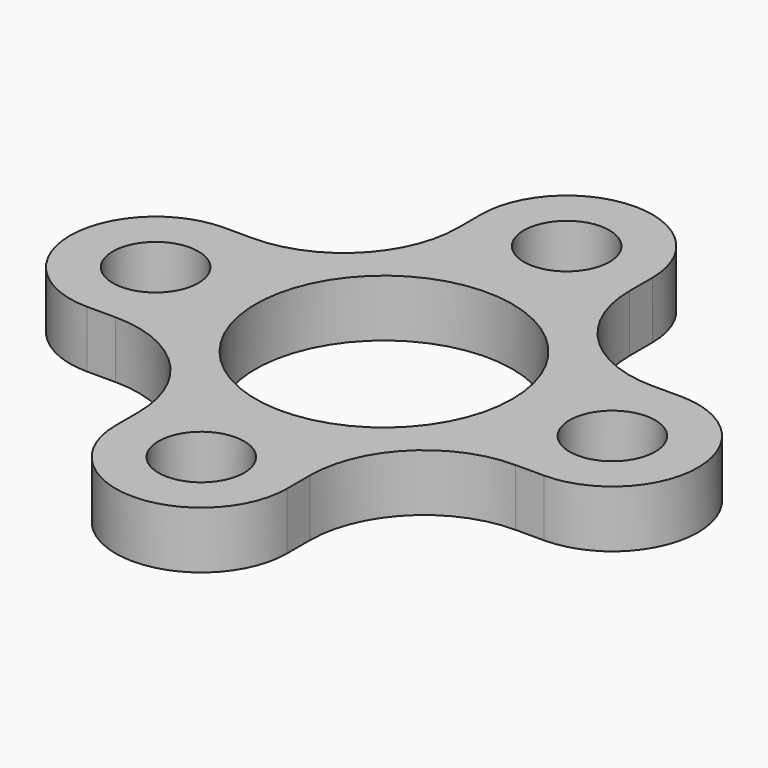
from build123d import *

# Parameters (mm, degrees)
F0_R     = 1.5
F0_R_2   = 4.5
F1_DEPTH = 2


with BuildPart() as f1:
    # F0 (on Top) → F1 (new body)
    with BuildSketch(Plane.XY):
        with BuildLine():
            ThreePointArc((-8.332531, 2.986763), (-11.332531, -0.013237), (-8.332531, -3.013237))
            Line((-8.332531, -3.013237), (-7.332531, -3.013237))
            ThreePointArc((-7.332531, -3.013237), (-4.504103, -4.184809), (-3.332531, -7.013237))
            Line((-3.332531, -7.013237), (-3.332531, -8.013237))
            ThreePointArc((-3.332531, -8.013237), (-0.332531, -11.013237), (2.667469, -8.013237))
            Line((2.667469, -8.013237), (2.667469, -7.013237))
            ThreePointArc((2.667469, -7.013237), (3.839042, -4.184809), (6.667469, -3.013237))
            Line((6.667469, -3.013237), (7.667469, -3.013237))
            ThreePointArc((7.667469, -3.013237), (10.667469, -0.013237), (7.667469, 2.986763))
            Line((7.667469, 2.986763), (6.667469, 2.986763))
            ThreePointArc((6.667469, 2.986763), (3.839042, 4.158336), (2.667469, 6.986763))
            Line((2.667469, 6.986763), (2.667469, 7.986763))
            ThreePointArc((2.667469, 7.986763), (-0.332531, 10.986763), (-3.332531, 7.986763))
            Line((-3.332531, 7.986763), (-3.332531, 6.986763))
            ThreePointArc((-3.332531, 6.986763), (-4.504103, 4.158336), (-7.332531, 2.986763))
            Line((-7.332531, 2.986763), (-8.332531, 2.986763))
        make_face()
        with Locations((-0.332531, -8.013237)):
            Circle(F0_R, mode=Mode.SUBTRACT)
        with Locations((-8.332531, -0.013237)):
            Circle(F0_R, mode=Mode.SUBTRACT)
        with Locations((-0.332531, -0.013237)):
            Circle(F0_R_2, mode=Mode.SUBTRACT)
        with Locations((7.667469, -0.013237)):
            Circle(F0_R, mode=Mode.SUBTRACT)
        with Locations((-0.332531, 7.986763)):
            Circle(F0_R, mode=Mode.SUBTRACT)
    extrude(amount=F1_DEPTH)


solid = f1.part
